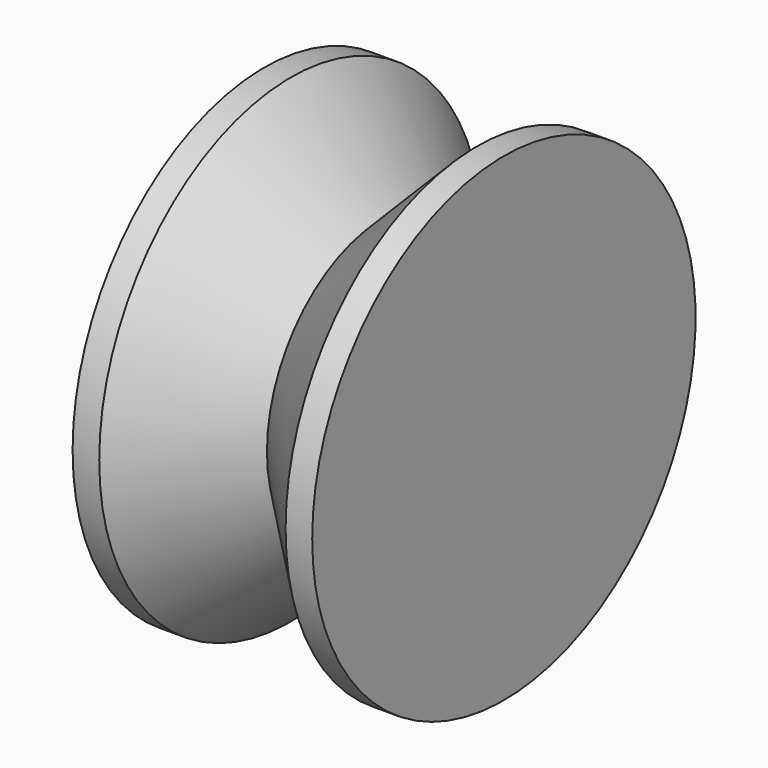
from build123d import *


with BuildPart() as f1:
    # F0 (on Top) → F1 (revolve)
    with BuildSketch(Plane.XY):
        Polygon((4, 0), (0, 0), (0, -36), (4, -36), (18, -22), (32, -36), (36, -36), (36, 0), (32, 0), (18, -14), align=None)
        Polygon((16.3431457505, -18), (4, -30.3431457505), (4, -5.6568542495), align=None, mode=Mode.SUBTRACT)
        Polygon((32, -30.3431457505), (19.6568542495, -18), (32, -5.6568542495), align=None, mode=Mode.SUBTRACT)
        Polygon((4, -5.6568542495), (4, -30.3431457505), (16.3431457505, -18), align=None)
        Polygon((32, -5.6568542495), (19.6568542495, -18), (32, -30.3431457505), align=None)
    revolve(axis=Axis((18, 0, 0), (1, 0, 0)))


solid = f1.part
